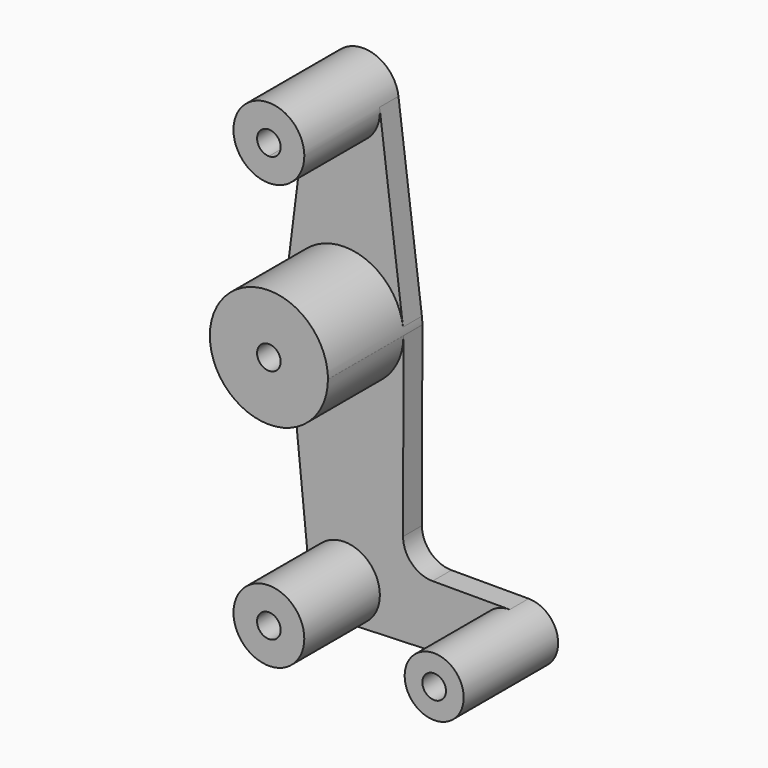
from build123d import *

# Parameters (mm, degrees)
F1_DEPTH = 2.5
F2_DEPTH = 12.5


with BuildPart() as f1:
    # F0 (on Front) → F1 (new body)
    with BuildSketch(Plane.XZ):
        with BuildLine():
            ThreePointArc((-6.2009796353, 38.125), (-3.5493292059, 39.2233495706), (-2.4509796353, 41.875))
            ThreePointArc((-2.4509796353, 41.875), (-2.4583399132, 42.109835922), (-2.4803918541, 42.34375))
            ThreePointArc((-2.4803918541, 42.34375), (-6.2009796353, 45.625), (-9.9215674165, 42.34375))
            ThreePointArc((-9.9215674165, 42.34375), (-9.0134796353, 39.3946081459), (-6.2009796353, 38.125))
        make_face()
        with BuildLine():
            ThreePointArc((-4.9509796353, 41.875), (-5.3170961588, 40.9911165235), (-6.2009796353, 40.625))
            ThreePointArc((-6.2009796353, 40.625), (-7.0848631118, 42.7588834765), (-4.9509796353, 41.875))
        make_face(mode=Mode.SUBTRACT)
        with BuildLine():
            ThreePointArc((-2.4803918541, 42.34375), (-2.4583399132, 42.109835922), (-2.4509796353, 41.875))
            ThreePointArc((-2.4509796353, 41.875), (-3.5493292059, 39.2233495706), (-6.2009796353, 38.125))
            Line((-6.2009796353, 38.125), (-6.2009796353, 28.125))
            ThreePointArc((-6.2009796353, 28.125), (-2.0669932118, 26.5625), (0, 22.65625))
            Line((0, 22.65625), (-2.4803918541, 42.34375))
        make_face()
        with BuildLine():
            Line((-6.2009796353, 28.125), (-6.2009796353, 38.125))
            ThreePointArc((-6.2009796353, 38.125), (-9.0134796353, 39.3946081459), (-9.9215674165, 42.34375))
            Line((-9.9215674165, 42.34375), (-12.4019592706, 22.65625))
            ThreePointArc((-12.4019592706, 22.65625), (-10.3349660588, 26.5625), (-6.2009796353, 28.125))
        make_face()
        with BuildLine():
            ThreePointArc((0.0490203647, 21.875), (0.0367532349, 22.2663932034), (0, 22.65625))
            ThreePointArc((0, 22.65625), (-2.0669932118, 26.5625), (-6.2009796353, 28.125))
            Line((-6.2009796353, 28.125), (-6.2009796353, 23.125))
            ThreePointArc((-6.2009796353, 23.125), (-5.3170961588, 22.7588834765), (-4.9509796353, 21.875))
            ThreePointArc((-4.9509796353, 21.875), (-5.3170961588, 20.9911165235), (-6.2009796353, 20.625))
            Line((-6.2009796353, 20.625), (-6.2009796353, 15.625))
            ThreePointArc((-6.2009796353, 15.625), (-1.7865184104, 17.450632012), (0.0490046617, 21.8609897301))
            ThreePointArc((0.0490046617, 21.8609897301), (0.0490164389, 21.8679948607), (0.0490203647, 21.875))
        make_face()
        with BuildLine():
            Line((-6.2009796353, 23.125), (-6.2009796353, 28.125))
            ThreePointArc((-6.2009796353, 28.125), (-10.3349660588, 26.5625), (-12.4019592706, 22.65625))
            ThreePointArc((-12.4019592706, 22.65625), (-12.4504850745, 21.9536242074), (-12.4196511172, 21.25))
            ThreePointArc((-12.4196511172, 21.25), (-10.3936070931, 17.2398759456), (-6.2009796353, 15.625))
            Line((-6.2009796353, 15.625), (-6.2009796353, 20.625))
            ThreePointArc((-6.2009796353, 20.625), (-7.4509796353, 21.875), (-6.2009796353, 23.125))
        make_face()
        with BuildLine():
            ThreePointArc((-6.2009796353, 15.625), (-10.3936070931, 17.2398759456), (-12.4196511172, 21.25))
            Line((-12.4196511172, 21.25), (-9.9321825245, -3.5))
            ThreePointArc((-9.9321825245, -3.5), (-8.982054068, -0.6094235253), (-6.2009796353, 0.625))
            Line((-6.2009796353, 0.625), (-6.2009796353, 15.625))
        make_face()
        with BuildLine():
            Line((0.0070208556, 3.1320051349), (0.0490046617, 21.8609897301))
            ThreePointArc((0.0490046617, 21.8609897301), (-1.7865184104, 17.450632012), (-6.2009796353, 15.625))
            Line((-6.2009796353, 15.625), (-6.2009796353, 0.625))
            ThreePointArc((-6.2009796353, 0.625), (-3.5493292059, -0.4733495706), (-2.4509796353, -3.125))
            Line((-2.4509796353, -3.125), (8.1740203647, -3.125))
            ThreePointArc((8.1740203647, -3.125), (9.0893116735, -0.9152913088), (11.2990203647, 0))
            Line((11.2990203647, 0), (3.1320130041, 0))
            ThreePointArc((3.1320130041, 0), (0.9198290101, 0.9177693875), (0.0070208556, 3.1320051349))
        make_face()
        with BuildLine():
            ThreePointArc((-6.2009796353, 0.625), (-8.982054068, -0.6094235253), (-9.9321825245, -3.5))
            ThreePointArc((-9.9321825245, -3.5), (-8.6664849037, -5.9505590193), (-6.0670510639, -6.8726076553))
            ThreePointArc((-6.0670510639, -6.8726076553), (-3.5023936961, -5.7288690306), (-2.4509796353, -3.125))
            Line((-2.4509796353, -3.125), (-4.9509796353, -3.125))
            ThreePointArc((-4.9509796353, -3.125), (-7.0848631118, -4.0088834765), (-6.2009796353, -1.875))
            Line((-6.2009796353, -1.875), (-6.2009796353, 0.625))
        make_face()
        with BuildLine():
            ThreePointArc((-2.4509796353, -3.125), (-3.5023936961, -5.7288690306), (-6.0670510639, -6.8726076553))
            Line((-6.0670510639, -6.8726076553), (11.4106275075, -6.2480063794))
            ThreePointArc((11.4106275075, -6.2480063794), (9.1291295059, -5.373821616), (8.1740203647, -3.125))
            Line((8.1740203647, -3.125), (-2.4509796353, -3.125))
        make_face()
        with BuildLine():
            ThreePointArc((8.1740203647, -3.125), (9.1291295059, -5.373821616), (11.4106275075, -6.2480063794))
            ThreePointArc((11.4106275075, -6.2480063794), (13.5478419807, -5.2948908588), (14.4240203647, -3.125))
            ThreePointArc((14.4240203647, -3.125), (13.5087290559, -0.9152913088), (11.2990203647, 0))
            ThreePointArc((11.2990203647, 0), (9.0893116735, -0.9152913088), (8.1740203647, -3.125))
        make_face()
        with BuildLine():
            ThreePointArc((12.5490203647, -3.125), (11.2990203647, -4.375), (10.0490203647, -3.125))
            ThreePointArc((10.0490203647, -3.125), (11.2990203647, -1.875), (12.5490203647, -3.125))
        make_face(mode=Mode.SUBTRACT)
        with BuildLine():
            ThreePointArc((-2.4509796353, -3.125), (-3.5493292059, -0.4733495706), (-6.2009796353, 0.625))
            Line((-6.2009796353, 0.625), (-6.2009796353, -1.875))
            ThreePointArc((-6.2009796353, -1.875), (-5.3170961588, -2.2411165235), (-4.9509796353, -3.125))
            Line((-4.9509796353, -3.125), (-2.4509796353, -3.125))
        make_face()
        with BuildLine():
            Line((-6.2009796353, -3.125), (-6.2009796353, -1.875))
            ThreePointArc((-6.2009796353, -1.875), (-7.0848631118, -4.0088834765), (-4.9509796353, -3.125))
            Line((-4.9509796353, -3.125), (-6.2009796353, -3.125))
        make_face()
        with BuildLine():
            ThreePointArc((-4.9509796353, -3.125), (-5.3170961588, -2.2411165235), (-6.2009796353, -1.875))
            Line((-6.2009796353, -1.875), (-6.2009796353, -3.125))
            Line((-6.2009796353, -3.125), (-4.9509796353, -3.125))
        make_face()
        with BuildLine():
            ThreePointArc((12.5490203647, -3.125), (11.2990203647, -1.875), (10.0490203647, -3.125))
            ThreePointArc((10.0490203647, -3.125), (11.2990203647, -4.375), (12.5490203647, -3.125))
        make_face()
        with BuildLine():
            ThreePointArc((-4.9509796353, 41.875), (-7.0848631118, 42.7588834765), (-6.2009796353, 40.625))
            ThreePointArc((-6.2009796353, 40.625), (-5.3170961588, 40.9911165235), (-4.9509796353, 41.875))
        make_face()
    extrude(amount=F1_DEPTH)

    # F0 (on Front) → F2 (join)
    with BuildSketch(Plane.XZ):
        with BuildLine():
            Line((-6.2009796353, 23.125), (-6.2009796353, 28.125))
            ThreePointArc((-6.2009796353, 28.125), (-10.3349660588, 26.5625), (-12.4019592706, 22.65625))
            ThreePointArc((-12.4019592706, 22.65625), (-12.4504850745, 21.9536242074), (-12.4196511172, 21.25))
            ThreePointArc((-12.4196511172, 21.25), (-10.3936070931, 17.2398759456), (-6.2009796353, 15.625))
            Line((-6.2009796353, 15.625), (-6.2009796353, 20.625))
            ThreePointArc((-6.2009796353, 20.625), (-7.4509796353, 21.875), (-6.2009796353, 23.125))
        make_face()
        with BuildLine():
            ThreePointArc((0.0490203647, 21.875), (0.0367532349, 22.2663932034), (0, 22.65625))
            ThreePointArc((0, 22.65625), (-2.0669932118, 26.5625), (-6.2009796353, 28.125))
            Line((-6.2009796353, 28.125), (-6.2009796353, 23.125))
            ThreePointArc((-6.2009796353, 23.125), (-5.3170961588, 22.7588834765), (-4.9509796353, 21.875))
            ThreePointArc((-4.9509796353, 21.875), (-5.3170961588, 20.9911165235), (-6.2009796353, 20.625))
            Line((-6.2009796353, 20.625), (-6.2009796353, 15.625))
            ThreePointArc((-6.2009796353, 15.625), (-1.7865184104, 17.450632012), (0.0490046617, 21.8609897301))
            ThreePointArc((0.0490046617, 21.8609897301), (0.0490164389, 21.8679948607), (0.0490203647, 21.875))
        make_face()
        with BuildLine():
            ThreePointArc((-6.2009796353, 38.125), (-3.5493292059, 39.2233495706), (-2.4509796353, 41.875))
            ThreePointArc((-2.4509796353, 41.875), (-2.4583399132, 42.109835922), (-2.4803918541, 42.34375))
            ThreePointArc((-2.4803918541, 42.34375), (-6.2009796353, 45.625), (-9.9215674165, 42.34375))
            ThreePointArc((-9.9215674165, 42.34375), (-9.0134796353, 39.3946081459), (-6.2009796353, 38.125))
        make_face()
        with BuildLine():
            ThreePointArc((-4.9509796353, 41.875), (-5.3170961588, 40.9911165235), (-6.2009796353, 40.625))
            ThreePointArc((-6.2009796353, 40.625), (-7.0848631118, 42.7588834765), (-4.9509796353, 41.875))
        make_face(mode=Mode.SUBTRACT)
        with BuildLine():
            ThreePointArc((8.1740203647, -3.125), (9.1291295059, -5.373821616), (11.4106275075, -6.2480063794))
            ThreePointArc((11.4106275075, -6.2480063794), (13.5478419807, -5.2948908588), (14.4240203647, -3.125))
            ThreePointArc((14.4240203647, -3.125), (13.5087290559, -0.9152913088), (11.2990203647, 0))
            ThreePointArc((11.2990203647, 0), (9.0893116735, -0.9152913088), (8.1740203647, -3.125))
        make_face()
        with BuildLine():
            ThreePointArc((12.5490203647, -3.125), (11.2990203647, -4.375), (10.0490203647, -3.125))
            ThreePointArc((10.0490203647, -3.125), (11.2990203647, -1.875), (12.5490203647, -3.125))
        make_face(mode=Mode.SUBTRACT)
        with BuildLine():
            ThreePointArc((-2.4509796353, -3.125), (-3.5493292059, -0.4733495706), (-6.2009796353, 0.625))
            Line((-6.2009796353, 0.625), (-6.2009796353, -1.875))
            ThreePointArc((-6.2009796353, -1.875), (-5.3170961588, -2.2411165235), (-4.9509796353, -3.125))
            Line((-4.9509796353, -3.125), (-2.4509796353, -3.125))
        make_face()
        with BuildLine():
            ThreePointArc((-6.2009796353, 0.625), (-8.982054068, -0.6094235253), (-9.9321825245, -3.5))
            ThreePointArc((-9.9321825245, -3.5), (-8.6664849037, -5.9505590193), (-6.0670510639, -6.8726076553))
            ThreePointArc((-6.0670510639, -6.8726076553), (-3.5023936961, -5.7288690306), (-2.4509796353, -3.125))
            Line((-2.4509796353, -3.125), (-4.9509796353, -3.125))
            ThreePointArc((-4.9509796353, -3.125), (-7.0848631118, -4.0088834765), (-6.2009796353, -1.875))
            Line((-6.2009796353, -1.875), (-6.2009796353, 0.625))
        make_face()
    extrude(amount=F2_DEPTH)


solid = f1.part
